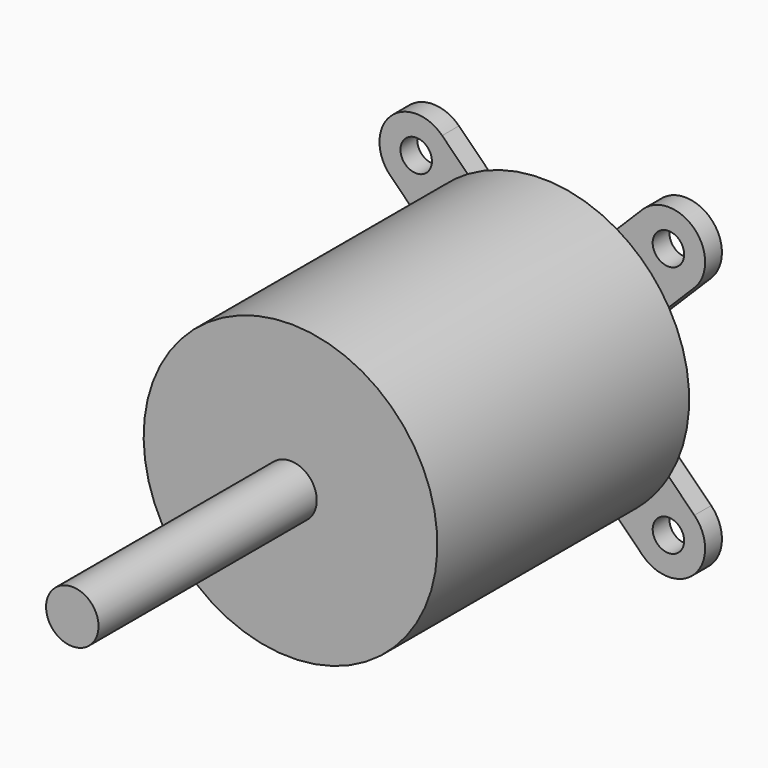
from build123d import *

# Parameters (mm, degrees)
SKETCH052_R             = 1.5
SKETCH052_R_2           = 5
PAD031_DEPTH            = 2
SKETCH053_R             = 14
PAD032_DEPTH            = 30
SKETCH054_R             = 1.5
PAD033_DEPTH            = 14
SKETCH055_R             = 2.5
PAD034_DEPTH            = 26
BODY014_PLACEMENT_ANGLE = 45


with BuildPart() as part:
    # Sketch052 → Pad031 (new body)
    with BuildSketch(Plane.XZ):
        with BuildLine():
            ThreePointArc((3.5, 17.100732), (0, 20.5), (-3.5, 17.100732))
            Line((-3.5, 17.100732), (-3.5, 8.5))
            ThreePointArc((-8.5, 3.5), (-4.964466, 4.964466), (-3.5, 8.5))
            Line((-8.5, 3.5), (-17, 3.5))
            ThreePointArc((-17, 3.5), (-20.5, 0), (-17, -3.5))
            Line((-17, -3.5), (-8.50149, -3.5))
            ThreePointArc((-3.50149, -8.5), (-4.965956, -4.964466), (-8.50149, -3.5))
            Line((-3.50149, -8.5), (-3.50149, -17.002433))
            ThreePointArc((-3.50149, -17.002433), (-0.049155, -20.499656), (3.5, -17.100733))
            Line((3.5, -17.100733), (3.5, -8.5))
            ThreePointArc((8.5, -3.5), (4.964466, -4.964466), (3.5, -8.5))
            Line((8.5, -3.5), (16.999956, -3.5))
            ThreePointArc((16.999956, -3.5), (20.5, -2.2e-05), (17, 3.5))
            Line((17, 3.5), (8.5, 3.5))
            ThreePointArc((3.5, 8.5), (4.964466, 4.964466), (8.5, 3.5))
            Line((3.5, 8.5), (3.5, 17.100732))
        make_face()
        with Locations((0, 16.998507)):
            Circle(SKETCH052_R, mode=Mode.SUBTRACT)
        with Locations((-17, 0)):
            Circle(SKETCH052_R, mode=Mode.SUBTRACT)
        with Locations((17, 0)):
            Circle(SKETCH052_R, mode=Mode.SUBTRACT)
        with Locations((0, -16.420498)):
            Circle(SKETCH052_R, mode=Mode.SUBTRACT)
        Circle(SKETCH052_R_2, mode=Mode.SUBTRACT)
    extrude(amount=PAD031_DEPTH)

    # Sketch053 (on Face23 of Pad031) → Pad032 (join)
    with BuildSketch(Plane.XZ.offset(2)):
        Circle(SKETCH053_R)
    extrude(amount=PAD032_DEPTH)

    # Sketch054 (on Face32 of Pad032) → Pad033 (join)
    with BuildSketch(Plane(origin=(0, -2, 0), x_dir=(1, 0, 0), z_dir=(0, 1, 0))):
        Circle(SKETCH054_R)
    extrude(amount=PAD033_DEPTH)

    # Sketch055 (on Face33 of Pad033) → Pad034 (join)
    with BuildSketch(Plane.XZ.offset(32)):
        Circle(SKETCH055_R)
    extrude(amount=PAD034_DEPTH)


with BuildPart() as part_1:
    # Body014 placement: moved
    add(part.part.moved(Location((-1, -63.5, 22.5))).rotate(Axis((-1, -63.5, 22.5), (0, 1, 0)), BODY014_PLACEMENT_ANGLE))


solid = part_1.part
